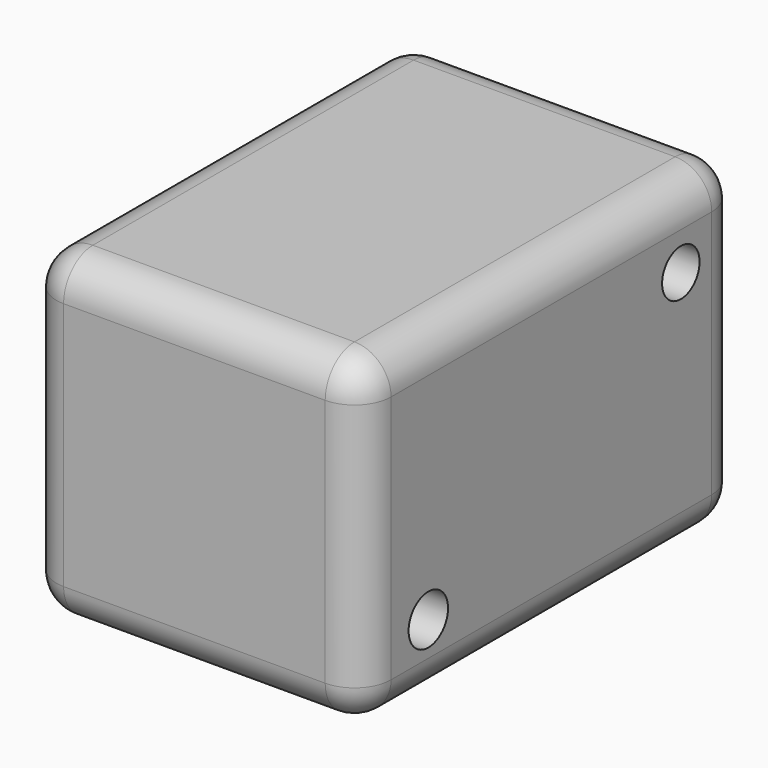
from build123d import *

# Parameters (mm, degrees)
F0_W     = 45.763
F0_H     = 44.044
F1_DEPTH = 64.8
F2_R     = 5
F3_R     = 3.201525
F3_R_2   = 3.37016
F4_DEPTH = 124.6


with BuildPart() as f1:
    # F0 (on Front) → F1 (new body)
    with BuildSketch(Plane.XZ):
        Rectangle(F0_W, F0_H)
    extrude(amount=F1_DEPTH)

    # F2
    f2_edges = [f1.edges().sort_by_distance(p)[0] for p in [
        (22.8815, -32.4, 22.022),
        (-22.8815, -32.4, 22.022),
        (0, 0, 22.022),
        (0, -64.8, 22.022),
        (22.8815, -32.4, -22.022),
        (22.8815, 0, 0),
        (22.8815, -64.8, 0),
        (-22.8815, -32.4, -22.022),
        (-22.8815, 0, 0),
        (-22.8815, -64.8, 0),
        (0, 0, -22.022),
        (0, -64.8, -22.022),
    ]]
    fillet(f2_edges, radius=F2_R)

    # F3 (on face) → F4 (cut)
    with BuildSketch(Plane.YZ.offset(22.8815)):
        with Locations((-10.277459, 11.858958)):
            Circle(F3_R)
        with Locations((-53.430479, -12.360408)):
            Circle(F3_R_2)
    extrude(amount=-F4_DEPTH, mode=Mode.SUBTRACT)


solid = f1.part
